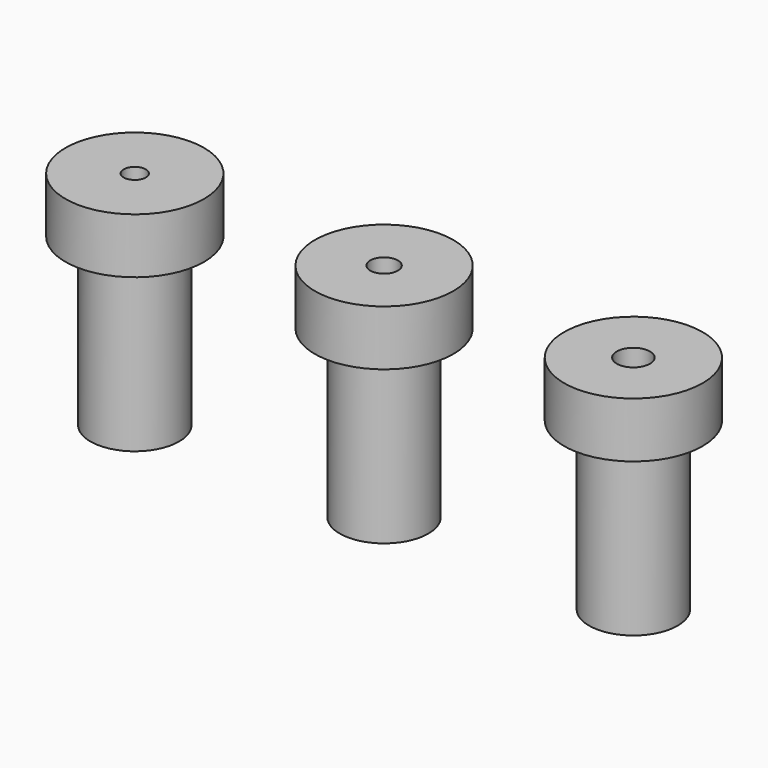
from build123d import *


with BuildPart() as f1:
    # F0 (on Front) → F1 (revolve)
    with BuildSketch(Plane.XZ):
        Polygon((2, 0), (8, 0), (8, 30), (12.5, 30), (12.5, 40), (2, 40), align=None)
    revolve(axis=Axis((0, 0, 23.22392), (0, 0, 1)))


with BuildPart() as f3:
    # F2 (on Front) → F3 (revolve)
    with BuildSketch(Plane.XZ):
        Polygon((47.5, 30), (47.5, 0), (53, 0), (53, 30), (57.5, 30), (57.5, 40), (47.5, 40), align=None)
    revolve(axis=Axis((45, 0, 12.089669), (0, 0, 1)))


with BuildPart() as f5:
    # F4 (on Front) → F5 (revolve)
    with BuildSketch(Plane.XZ):
        Polygon((93, 30), (93, 0), (98, 0), (98, 30), (102.5, 30), (102.5, 40), (93, 40), align=None)
    revolve(axis=Axis((90, 0, 19.244505), (0, 0, 1)))


solid = Compound([f1.part, f3.part, f5.part])
